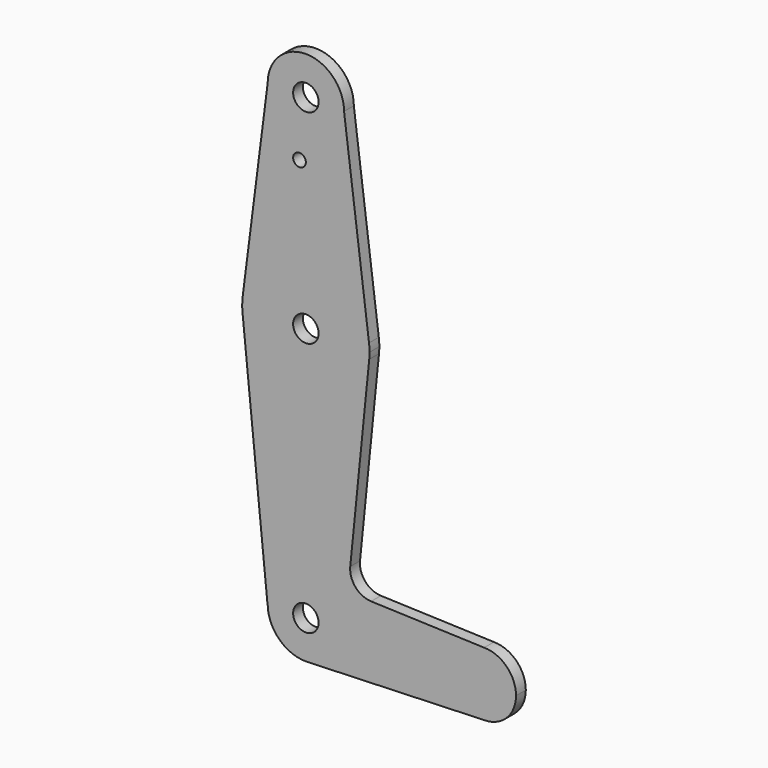
from build123d import *

# Parameters (mm, degrees)
F0_R     = 3.175
F0_R_2   = 1.5875
F1_DEPTH = 3.048


with BuildPart() as f1:
    # F0 (on Front) → F1 (new body)
    with BuildSketch(Plane.XZ):
        with BuildLine():
            ThreePointArc((0.6740682063, -9.5011187264), (6.9694377343, -6.4925004942), (9.525, 0))
            ThreePointArc((9.525, 0), (0.0239322363, 9.5249699342), (-9.5248797371, 0.0478643216))
            ThreePointArc((-9.5248797371, 0.0478643216), (-6.7520934777, -6.7182481845), (0, -9.525))
            Line((0, -9.525), (0.6740682063, -9.5011187264))
        make_face()
        Circle(F0_R, mode=Mode.SUBTRACT)
        with BuildLine():
            ThreePointArc((-9.5248797371, 0.0478643216), (0.0239322363, 9.5249699342), (9.525, 0))
            Line((9.525, 0), (36.4998, 0))
            ThreePointArc((36.4998, 0), (38.8206354406, 5.6139054763), (44.4281375757, 7.95016994))
            Line((44.4281375757, 7.95016994), (44.45, 7.9551565768))
            Line((44.45, 7.9551565768), (16.2624691402, 8.9506573628))
            ThreePointArc((16.2624691402, 8.9506573628), (12.3776781168, 10.799597747), (11.0703414285, 14.8985064584))
            Line((11.0703414285, 14.8985064584), (15.7954255641, 61.9125))
            ThreePointArc((15.7954255641, 61.9125), (0, 47.625), (-15.7954255641, 61.9125))
            Line((-15.7954255641, 61.9125), (-9.5729851903, 0))
            Line((-9.5729851903, 0), (-9.5248797371, 0.0478643216))
        make_face()
        with BuildLine():
            Line((36.4998, 0), (9.525, 0))
            ThreePointArc((9.525, 0), (6.9694377343, -6.4925004942), (0.6740682063, -9.5011187264))
            Line((0.6740682063, -9.5011187264), (44.45, -7.9502))
            ThreePointArc((44.45, -7.9502), (38.8283596682, -5.6216403318), (36.4998, 0))
        make_face()
        with BuildLine():
            ThreePointArc((44.4281375757, 7.95016994), (38.8206354406, 5.6139054763), (36.4998, 0))
            ThreePointArc((36.4998, 0), (38.8283596682, -5.6216403318), (44.45, -7.9502))
            ThreePointArc((44.45, -7.9502), (50.0716403318, -5.6216403318), (52.4002, 0))
            ThreePointArc((52.4002, 0), (50.0639054763, 5.6293645594), (44.4281375757, 7.95016994))
        make_face()
        with BuildLine():
            ThreePointArc((0, -9.525), (0.3372455567, -9.5190278093), (0.6740682063, -9.5011187264))
            Line((0.6740682063, -9.5011187264), (0, -9.525))
        make_face()
        with BuildLine():
            ThreePointArc((-15.7474569047, 65.5082893304), (-15.8735876171, 63.7117573215), (-15.7954255641, 61.9125))
            ThreePointArc((-15.7954255641, 61.9125), (0, 47.625), (15.7954255641, 61.9125))
            ThreePointArc((15.7954255641, 61.9125), (15.8550939106, 62.7052534459), (15.875, 63.5))
            ThreePointArc((15.875, 63.5), (15.8430821396, 64.5061676396), (15.7474569047, 65.5082893304))
            ThreePointArc((15.7474569047, 65.5082893304), (0, 79.375), (-15.7474569047, 65.5082893304))
        make_face()
        with Locations((0, 63.5)):
            Circle(F0_R, mode=Mode.SUBTRACT)
        with BuildLine():
            Line((-9.525, 114.3), (-15.7474569047, 65.5082893304))
            ThreePointArc((-15.7474569047, 65.5082893304), (0, 79.375), (15.7474569047, 65.5082893304))
            Line((15.7474569047, 65.5082893304), (9.525, 114.3))
            ThreePointArc((9.525, 114.3), (0, 104.775), (-9.525, 114.3))
        make_face()
        with Locations((-1.5875, 100.0252)):
            Circle(F0_R_2, mode=Mode.SUBTRACT)
        with BuildLine():
            ThreePointArc((9.525, 114.3), (0, 123.825), (-9.525, 114.3))
            ThreePointArc((-9.525, 114.3), (0, 104.775), (9.525, 114.3))
        make_face()
        with Locations((0, 114.3)):
            Circle(F0_R, mode=Mode.SUBTRACT)
    extrude(amount=F1_DEPTH)


solid = f1.part
